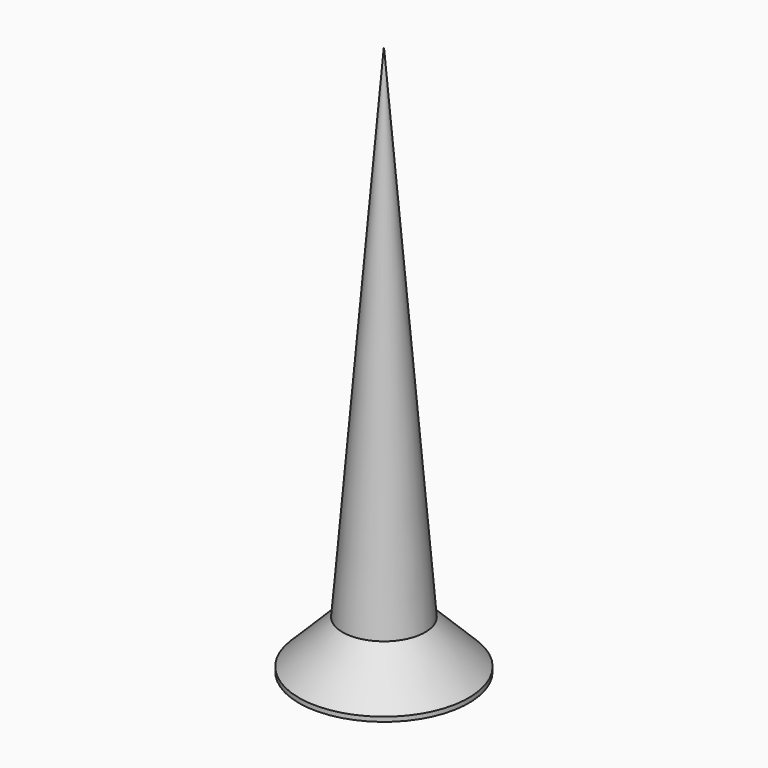
from build123d import *

# Parameters (mm, degrees)
POCKET005_DEPTH         = 0.2
POLARPATTERN005_COUNT   = 2
POLARPATTERN005_ANGLE   = 90
BODY009_PLACEMENT_ANGLE = 180


with BuildPart() as part:
    # Sketch017 → Revolution005 (revolve)
    with BuildSketch(Plane.XZ):
        Polygon((0, 0), (0, -12), (0.9, -1.05), (1.85, -0.1), (1.85, 0), align=None)
    revolve(axis=Axis((0, 0, 0), (0, 0, 1)))

    # Sketch018 → Pocket005 (cut, symmetric)
    with BuildSketch(Plane.XZ):
        Polygon((-1.15, 0), (0, -1.15), (1.15, 0), align=None)
    pocket005 = extrude(amount=POCKET005_DEPTH, both=True, mode=Mode.SUBTRACT)

    # PolarPattern005: Pocket005 ×2 about axis
    polarpattern005_axis = Axis((0, 0, 0), (0, 0, 1))
    for i in range(1, POLARPATTERN005_COUNT):
        add(pocket005.rotate(polarpattern005_axis, i * POLARPATTERN005_ANGLE / (POLARPATTERN005_COUNT - 1)), mode=Mode.SUBTRACT)


with BuildPart() as part_1:
    # Body009 placement: moved
    add(part.part.moved(Location((12, -21, -22))).rotate(Axis((12, -21, -22), (0, 1, 0)), BODY009_PLACEMENT_ANGLE))


solid = part_1.part
